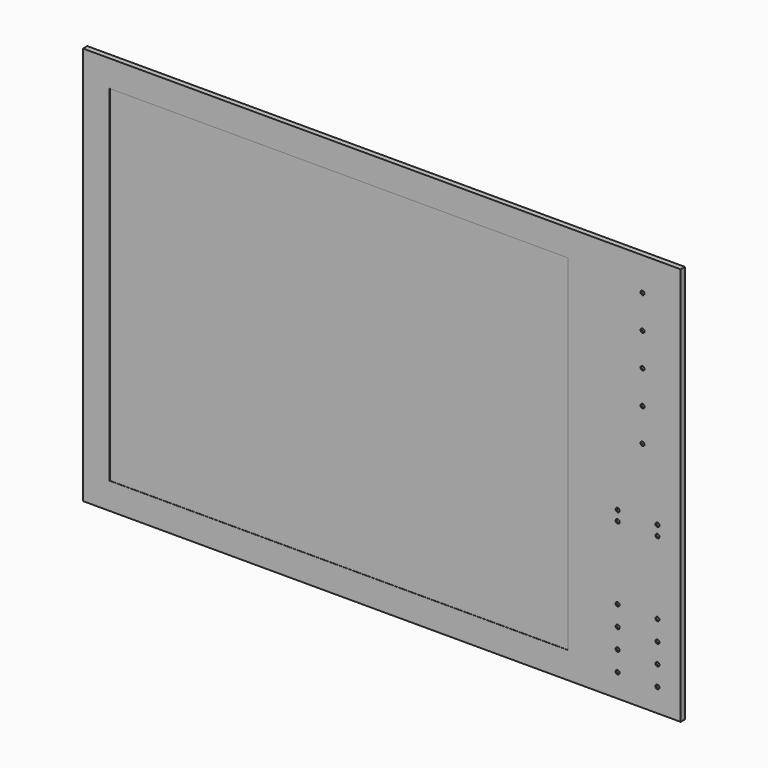
from build123d import *

# Parameters (mm, degrees)
F0_W     = 900
F0_H     = 600
F1_DEPTH = 8
F2_W     = 690
F2_H     = 520
F3_DEPTH = 0.3
F4_R     = 3
F5_DEPTH = 2


with BuildPart() as f1:
    # F0 (on Front) → F1 (new body)
    with BuildSketch(Plane.XZ):
        Rectangle(F0_W, F0_H)
    extrude(amount=F1_DEPTH)

    # F2 (on face) → F3 (cut)
    with BuildSketch(Plane.XZ.offset(8)):
        with Locations((-65, 0)):
            Rectangle(F2_W, F2_H)
    extrude(amount=-F3_DEPTH, mode=Mode.SUBTRACT)

    # F4 (on face) → F5 (cut)
    with BuildSketch(Plane.XZ.offset(8)):
        with Locations((392.5, 100)):
            Circle(F4_R)
        with Locations((392.5, 150)):
            Circle(F4_R)
        with Locations((415, -65)):
            Circle(F4_R)
        with Locations((392.5, 50)):
            Circle(F4_R)
        with Locations((355, -50)):
            Circle(F4_R)
        with Locations((415, -50)):
            Circle(F4_R)
        with Locations((415, -175)):
            Circle(F4_R)
        with Locations((415, -205)):
            Circle(F4_R)
        with Locations((415, -235)):
            Circle(F4_R)
        with Locations((415, -265)):
            Circle(F4_R)
        with Locations((355, -265)):
            Circle(F4_R)
        with Locations((355, -65)):
            Circle(F4_R)
        with Locations((355, -175)):
            Circle(F4_R)
        with Locations((355, -205)):
            Circle(F4_R)
        with Locations((355, -235)):
            Circle(F4_R)
        with Locations((392.5, 200)):
            Circle(F4_R)
        with Locations((392.5, 250)):
            Circle(F4_R)
    extrude(amount=-F5_DEPTH, mode=Mode.SUBTRACT)


solid = f1.part
